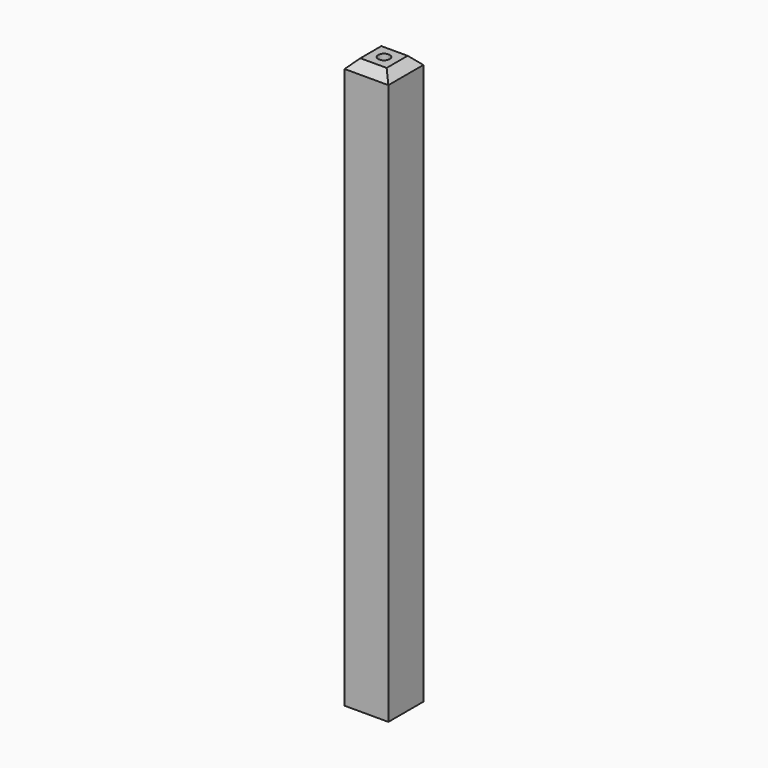
from build123d import *

# Parameters (mm, degrees)
F0_W     = 5
F0_H     = 5
F1_DEPTH = 65
F2_SIZE  = 1
F3_R     = 0.65
F4_DEPTH = 6


with BuildPart() as f1:
    # F0 (on Top) → F1 (new body)
    with BuildSketch(Plane.XY):
        Rectangle(F0_W, F0_H)
    extrude(amount=F1_DEPTH)

    # F2
    f2_edges = [f1.edges().sort_by_distance(p)[0] for p in [
        (0, -2.5, 65),
        (2.5, 0, 65),
        (0, 2.5, 65),
        (-2.5, 0, 65),
    ]]
    chamfer(f2_edges, length=F2_SIZE)

    # F3 (on face) → F4 (cut)
    with BuildSketch(Plane.XY.offset(65)):
        Circle(F3_R)
    extrude(amount=-F4_DEPTH, mode=Mode.SUBTRACT)


solid = f1.part
